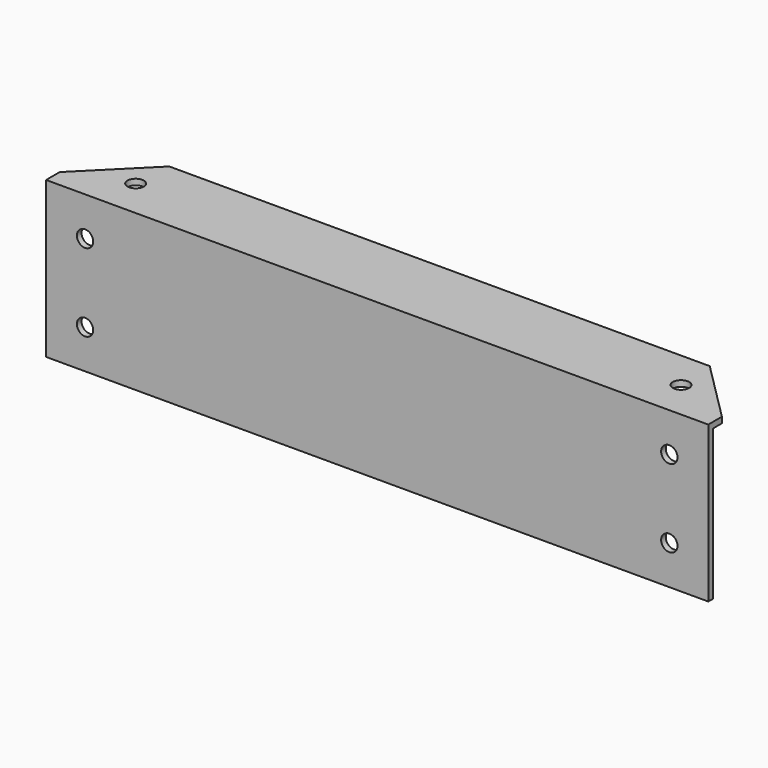
from build123d import *

# Parameters (mm, degrees)
PAD_DEPTH     = 85
SKETCH002_R   = 2.1
HOLE_DEPTH    = 20.001
SKETCH003_R   = 2.1
HOLE001_DEPTH = 40.001
POCKET_DEPTH  = 391.568917


with BuildPart() as part:
    # Sketch → Pad (new body, symmetric)
    with BuildSketch(Plane.YZ):
        Polygon((0, -40), (0, 0), (20, 0), (20, -1.5), (1.5, -1.5), (1.5, -40), align=None)
    extrude(amount=PAD_DEPTH, both=True)

    # Sketch002 → Hole (cut, through all)
    with BuildSketch(Plane.XZ):
        with Locations((-75, -30)):
            Circle(SKETCH002_R)
        with Locations((75, -30)):
            Circle(SKETCH002_R)
        with Locations((-75, -10)):
            Circle(SKETCH002_R)
        with Locations((75, -10)):
            Circle(SKETCH002_R)
    extrude(amount=-HOLE_DEPTH, mode=Mode.SUBTRACT)

    # Sketch003 → Hole001 (cut, through all)
    with BuildSketch(Plane.XY):
        with Locations((-70, 10)):
            Circle(SKETCH003_R)
        with Locations((70, 10)):
            Circle(SKETCH003_R)
    extrude(amount=-HOLE001_DEPTH, mode=Mode.SUBTRACT)

    # Sketch004 → Pocket (cut, through all)
    with BuildSketch(Plane.XY):
        Polygon((-85, 4.377634), (-85, 50), (-39.377634, 50), align=None)
    pocket = extrude(amount=-POCKET_DEPTH, mode=Mode.SUBTRACT)

    # Mirrored: Pocket across YZ
    add(pocket.mirror(Plane.YZ), mode=Mode.SUBTRACT)


solid = part.part
